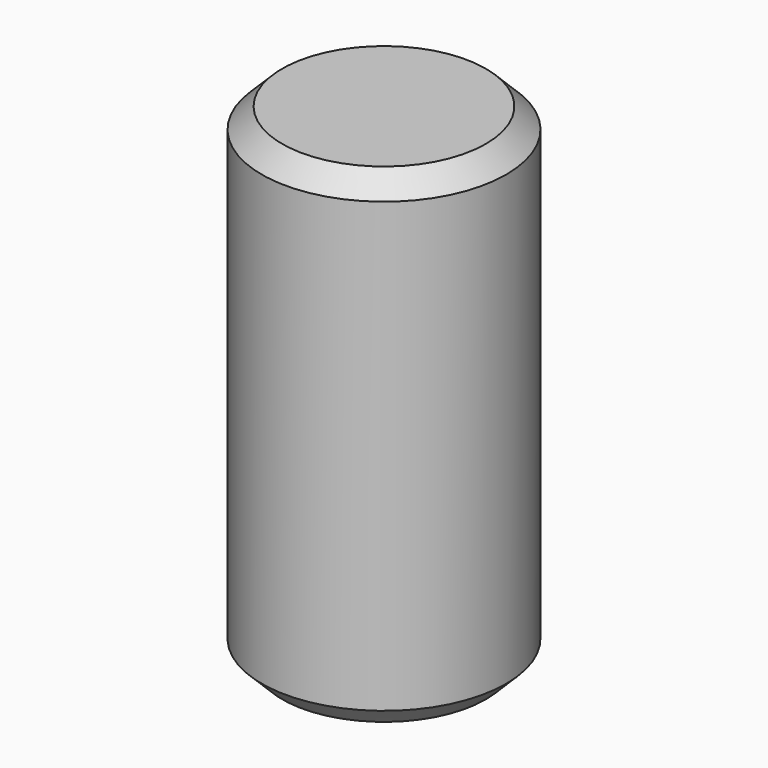
from build123d import *

# Parameters (mm, degrees)
F0_R     = 3
F1_DEPTH = 6
F2_SIZE  = 0.5
F4_DEPTH = 4


with BuildPart() as f1:
    # F0 (on Top) → F1 (new body, symmetric)
    with BuildSketch(Plane.XY):
        Circle(F0_R)
    extrude(amount=F1_DEPTH, both=True)

    # F2
    f2_edges = [f1.edges().sort_by_distance(p)[0] for p in [
        (-3, 0, 6),
        (-3, 0, -6),
    ]]
    chamfer(f2_edges, length=F2_SIZE)

    # F3 (on face) → F4 (cut)
    with BuildSketch(Plane(origin=(0, 0, -6), x_dir=(1, 0, 0), z_dir=(0, 0, -1))):
        Polygon((0.866025, 1.5), (-0.866025, 1.5), (-1.732051, 0), (-0.866025, -1.5), (0.866025, -1.5), (1.732051, 0), align=None)
    extrude(amount=-F4_DEPTH, mode=Mode.SUBTRACT)


solid = f1.part
